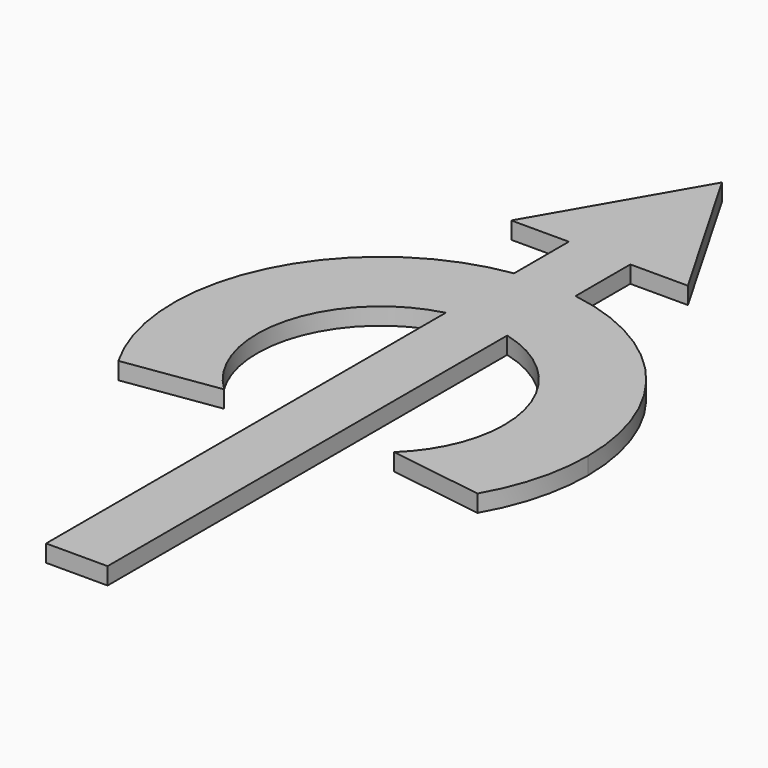
from build123d import *

# Parameters (mm, degrees)
F1_DEPTH = 2.54


with BuildPart() as f1:
    # F0 (on Top) → F1 (new body)
    with BuildSketch(Plane.XY):
        with BuildLine():
            Line((-4.572, 17.78), (-4.572, -56.483145))
            Line((-4.572, -56.483145), (4.572, -56.483145))
            Line((4.572, -56.483145), (4.572, 17.78))
            ThreePointArc((4.572, 17.78), (14.508037, 11.249375), (18.35842, 0))
            ThreePointArc((18.35842, 0), (16.86658, -7.249142), (12.63352, -13.320126))
            Line((12.63352, -13.320126), (26.696699, -15.401943))
            ThreePointArc((26.696699, -15.401943), (29.77207, -7.97229), (30.820993, 0))
            ThreePointArc((30.820993, 0), (23.354305, 20.112434), (4.572, 30.48))
            Line((4.572, 30.48), (4.572, 40.660821))
            Line((4.572, 40.660821), (13.126108, 40.660821))
            Line((13.126108, 40.660821), (0, 63.395906))
            Line((0, 63.395906), (-13.126108, 40.660821))
            Line((-13.126108, 40.660821), (-4.572, 40.660821))
            Line((-4.572, 40.660821), (-4.572, 30.48))
            ThreePointArc((-4.572, 30.48), (-27.761864, 13.387028), (-26.696699, -15.401943))
            Line((-26.696699, -15.401943), (-12.625905, -13.327345))
            ThreePointArc((-12.625905, -13.327345), (-17.772414, 4.6014), (-4.572, 17.78))
        make_face()
    extrude(amount=F1_DEPTH)


solid = f1.part
